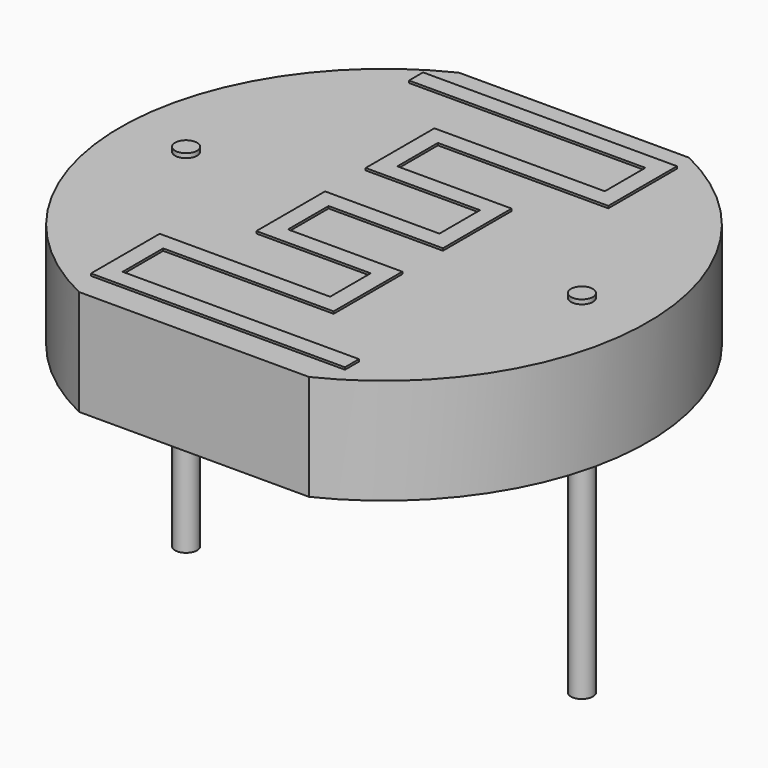
from build123d import *

# Parameters (mm, degrees)
PAD001_DEPTH   = 2.4
SKETCH_R       = 0.25
PAD_DEPTH      = 5
PAD_DEPTH_BACK = 3
PAD002_DEPTH   = 0.05


with BuildPart() as pad001:
    # Sketch001 → Pad001 (new body)
    with BuildSketch(Plane.XY.offset(4.9)):
        with BuildLine():
            ThreePointArc((1.884661, 5.4), (-1.5, 0), (1.884661, -5.4))
            Line((1.884661, -5.4), (7.115339, -5.4))
            ThreePointArc((7.115339, -5.4), (10.5, 0), (7.115339, 5.4))
            Line((1.884661, 5.4), (7.115339, 5.4))
        make_face()
    extrude(amount=-PAD001_DEPTH)


with BuildPart() as pad:
    # Sketch → Pad (new body, two sides)
    with BuildSketch(Plane.XY) as pad_sk:
        Circle(SKETCH_R)
        with Locations((9, 0)):
            Circle(SKETCH_R)
    extrude(amount=PAD_DEPTH)
    extrude(pad_sk.sketch, amount=-PAD_DEPTH_BACK)


with BuildPart() as obj1:
    # Sketch002 → Pad002 (new body)
    with BuildSketch(Plane.XY.offset(4.95)):
        Polygon((1.5, 4.46), (6.875, 4.46), (6.875, 3.306667), (3, 3.306667), (3, 2.906667), (3, 1.353333), (3.4, 1.353333), (5.6, 1.353333), (5.6, 0.2), (3, 0.2), (3, -0.2), (3, -1.753333), (3.4, -1.753333), (5.6, -1.753333), (5.6, -2.906667), (1.725, -2.906667), (1.725, -3.306667), (1.725, -4.86), (2.125, -4.86), (7.5, -4.86), (7.5, -4.46), (2.125, -4.46), (2.125, -3.306667), (5.6, -3.306667), (6, -3.306667), (6, -1.753333), (6, -1.353333), (3.4, -1.353333), (3.4, -0.2), (5.6, -0.2), (6, -0.2), (6, 1.353333), (6, 1.753333), (3.4, 1.753333), (3.4, 2.906667), (6.875, 2.906667), (7.275, 2.906667), (7.275, 4.46), (7.275, 4.86), (1.5, 4.86), align=None)
    extrude(amount=PAD002_DEPTH)

    add(pad001.part)
    add(pad.part)


solid = obj1.part
